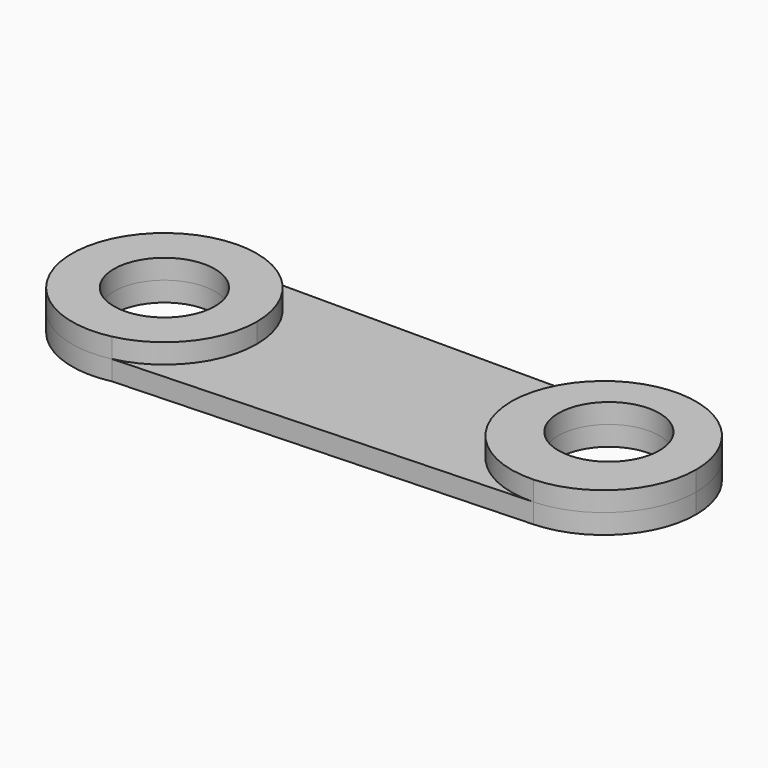
from build123d import *

# Parameters (mm, degrees)
F1_DEPTH   = 8
F2_DEPTH   = 4
F4_D       = 20.49
F4_DEPTH   = 12
F4_2_D     = 20.49
F4_2_DEPTH = 12


with BuildPart() as f1:
    # F0 (on Top) → F1 (new body)
    with BuildSketch(Plane.XY):
        with BuildLine():
            ThreePointArc((-48.905286, 20.778554), (-38.326452, 27.33815), (-34.191997, 39.078948))
            ThreePointArc((-34.191997, 39.078948), (-38.29669, 50.782631), (-48.812414, 57.358671))
            ThreePointArc((-48.812414, 57.358671), (-71.667261, 39.12652), (-48.905286, 20.778554))
        make_face()
        with BuildLine():
            ThreePointArc((51.851126, 42.910588), (41.099003, 59.861433), (21.18229, 57.358671))
            ThreePointArc((21.18229, 57.358671), (15.614995, 36.209575), (33.884644, 24.188803))
            ThreePointArc((33.884644, 24.188803), (46.632896, 29.936578), (51.851126, 42.910588))
        make_face()
    extrude(amount=F1_DEPTH)

    # F4
    with Locations(Plane.XY.offset(8)):
        with Locations((-52.929659, 39.078948), (32.955691, 44.427127)):
            Hole(F4_D / 2, depth=F4_DEPTH)


with BuildPart() as f2:
    # F0 (on Top) → F2 (new body)
    with BuildSketch(Plane.XY):
        with BuildLine():
            ThreePointArc((-48.905286, 20.778554), (-38.326452, 27.33815), (-34.191997, 39.078948))
            ThreePointArc((-34.191997, 39.078948), (-38.29669, 50.782631), (-48.812414, 57.358671))
            ThreePointArc((-48.812414, 57.358671), (-71.667261, 39.12652), (-48.905286, 20.778554))
        make_face()
        with BuildLine():
            ThreePointArc((-48.812414, 57.358671), (-38.29669, 50.782631), (-34.191997, 39.078948))
            ThreePointArc((-34.191997, 39.078948), (-38.326452, 27.33815), (-48.905286, 20.778554))
            Line((-48.905286, 20.778554), (33.884644, 24.188803))
            ThreePointArc((33.884644, 24.188803), (15.614995, 36.209575), (21.18229, 57.358671))
            Line((21.18229, 57.358671), (-48.812414, 57.358671))
        make_face()
        with BuildLine():
            ThreePointArc((51.851126, 42.910588), (41.099003, 59.861433), (21.18229, 57.358671))
            ThreePointArc((21.18229, 57.358671), (15.614995, 36.209575), (33.884644, 24.188803))
            ThreePointArc((33.884644, 24.188803), (46.632896, 29.936578), (51.851126, 42.910588))
        make_face()
    extrude(amount=F2_DEPTH)

    # F4#2
    with Locations(Plane.XY.offset(8)):
        with Locations((-52.929659, 39.078948), (32.955691, 44.427127)):
            Hole(F4_2_D / 2, depth=F4_2_DEPTH)


solid = Compound([f1.part, f2.part])
